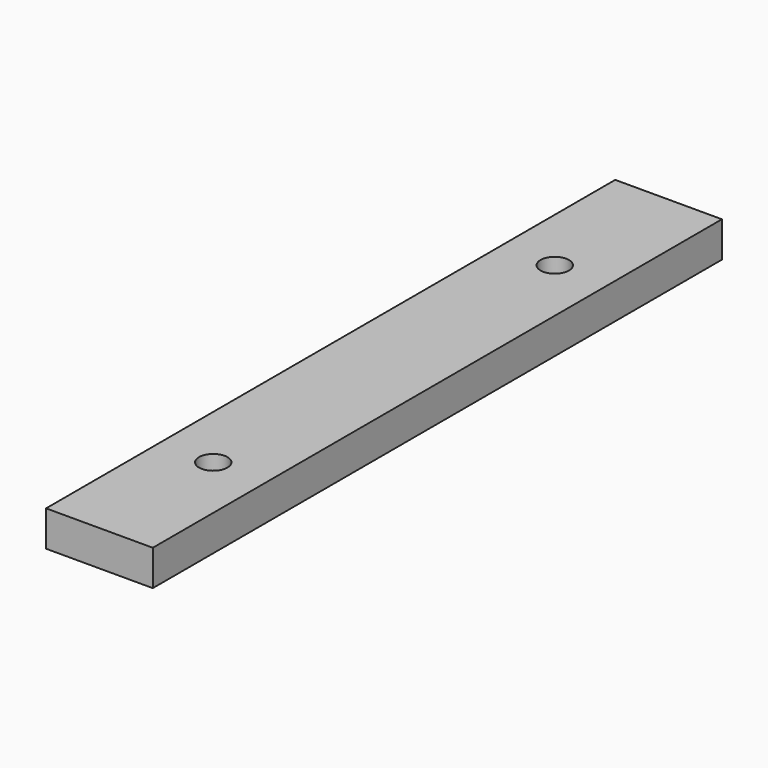
from build123d import *

# Parameters (mm, degrees)
F0_W     = 38.1
F0_H     = 254
F1_DEPTH = 12.7
F3_D     = 10.16


with BuildPart() as f1:
    # F0 (on Top) → F1 (new body)
    with BuildSketch(Plane.XY):
        Rectangle(F0_W, F0_H)
    extrude(amount=-F1_DEPTH)

    # F3 (through all)
    with Locations(Plane.XY):
        with Locations((0, 76.2), (0, -76.2)):
            Hole(F3_D / 2)


solid = f1.part
